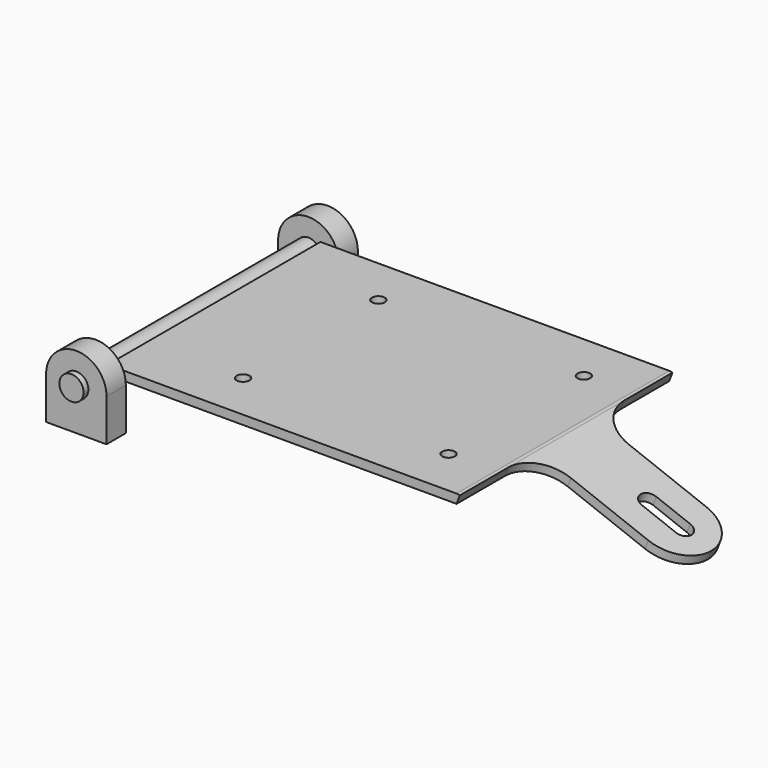
from build123d import *

# Parameters (mm, degrees)
F1_DEPTH  = 279.4
F3_DEPTH  = 25.4
F5_D      = 13.49375
F7_R      = 12.7
F8_DEPTH  = 171.45
F9_R      = 12.7
F10_DEPTH = 25.4


with BuildPart() as f1:
    # F0 (on Front) → F1 (new body)
    with BuildSketch(Plane.XZ):
        with BuildLine():
            Line((-1.7659949268, 0), (-368.3, 0))
            Line((-368.3, 0), (-368.3, -9.525))
            Line((-368.3, -9.525), (-3.5319898537, -9.525))
            ThreePointArc((-3.5319898537, -9.525), (-1.7955876016, -9.6846098736), (-0.1173789336, -10.1580903477))
            Line((-0.1173789336, -10.1580903477), (150.7118230529, -68.0784989338))
            Line((150.7118230529, -68.0784989338), (154.126433973, -59.1865892815))
            Line((154.126433973, -59.1865892815), (1.6486159933, -0.6330903477))
            ThreePointArc((1.6486159933, -0.6330903477), (-0.0295926748, -0.1596098736), (-1.7659949268, 0))
        make_face()
    extrude(amount=F1_DEPTH)

    # F2 (on face) → F3 (cut)
    with BuildSketch(Plane(origin=(0, 0, 0), x_dir=(0.9335338218, 0, -0.3584893354), z_dir=(0.3584893354, 0, 0.9335338218))):
        with BuildLine():
            ThreePointArc((133.35, -149.225), (142.875, -139.7), (133.35, -130.175))
            Line((133.35, -130.175), (95.25, -130.175))
            ThreePointArc((95.25, -130.175), (85.725, -139.7), (95.25, -149.225))
            Line((95.25, -149.225), (133.35, -149.225))
        make_face()
        with BuildLine():
            Line((165.1, -279.4), (165.1, -139.7))
            ThreePointArc((165.1, -139.7), (153.9407683632, -166.6407683632), (127, -177.8))
            Line((127, -177.8), (39.8659949268, -177.8))
            ThreePointArc((39.8659949268, -177.8), (12.9252265636, -188.9592316368), (1.7659949268, -215.9))
            Line((1.7659949268, -215.9), (1.7659949268, -279.4))
            Line((1.7659949268, -279.4), (165.1, -279.4))
        make_face()
        with BuildLine():
            ThreePointArc((1.7659949268, -63.5), (12.9252265636, -90.4407683632), (39.8659949268, -101.6))
            Line((39.8659949268, -101.6), (127, -101.6))
            ThreePointArc((127, -101.6), (153.9407683632, -112.7592316368), (165.1, -139.7))
            Line((165.1, -139.7), (165.1, 0))
            Line((165.1, 0), (1.7659949268, 0))
            Line((1.7659949268, 0), (1.7659949268, -63.5))
        make_face()
    extrude(amount=-F3_DEPTH, mode=Mode.SUBTRACT)

    # F5 (through all)
    with Locations(Plane.XY):
        with Locations((-266.7, -228.6), (-266.7, -50.8), (-50.8, -50.8), (-50.8, -228.6)):
            Hole(F5_D / 2)


with BuildPart() as f8:
    # F7 (on offset) → F8 (new body, symmetric)
    with BuildSketch(Plane.XZ.offset(139.7)):
        with Locations((-381, -12.7)):
            Circle(F7_R)
    extrude(amount=F8_DEPTH, both=True)


with BuildPart() as f10:
    # F9 (on face) → F10 (new body)
    with BuildSketch(Plane.XZ.offset(279.4)):
        with BuildLine():
            Line((-412.75, -12.7), (-412.75, -57.15))
            Line((-412.75, -57.15), (-349.25, -57.15))
            Line((-349.25, -57.15), (-349.25, -12.7))
            ThreePointArc((-349.25, -12.7), (-381, 19.05), (-412.75, -12.7))
        make_face()
        with Locations((-381, -12.7)):
            Circle(F9_R, mode=Mode.SUBTRACT)
    extrude(amount=F10_DEPTH)


with BuildPart() as f11_1:
    # F11: copy of F10
    add(f10.part.moved(Location((0, 304.8, 0))))


solid = Compound([f1.part, f8.part, f10.part, f11_1.part])
